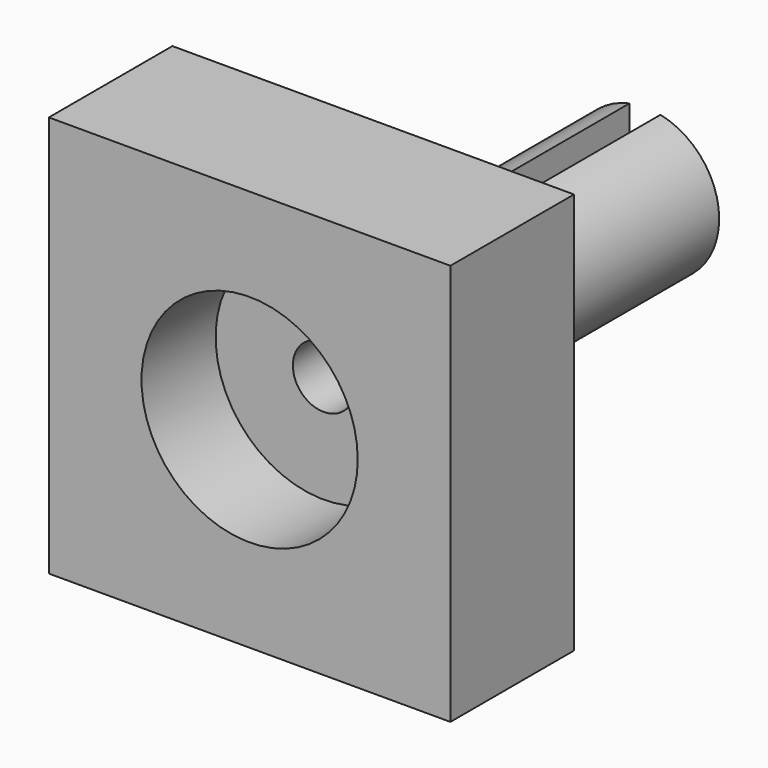
from build123d import *

# Parameters (mm, degrees)
CONE_ROLL_ANGLE        = 90
CYLINDER_R             = 1
CYLINDER_DEPTH         = 3
CYLINDER_ROLL_ANGLE    = 90
CYLINDER005_R          = 3.5
CYLINDER005_DEPTH      = 3
CYLINDER005_ROLL_ANGLE = 90
BOX_W                  = 1
BOX_H                  = 10
BOX_DEPTH              = 10
BOX002_W               = 13
BOX002_H               = 5
BOX002_DEPTH           = 13
CYLINDER002_R          = 2.4
CYLINDER002_DEPTH      = 13
CYLINDER002_ROLL_ANGLE = 90


with BuildPart() as screw_guide:
    # Cone → Cone (revolve)
    with BuildSketch(Plane.XZ):
        Polygon((0, 0), (0.5, 0), (1.5, 7), (0, 7), align=None)
    revolve(axis=Axis((0, 0, 0), (0, 0, 1)))


with BuildPart() as screw_guide_1:
    # Cone roll: moved
    add(screw_guide.part.rotate(Axis((0, 0, 0), (1, 0, 0)), CONE_ROLL_ANGLE))


with BuildPart() as screw_guide_2:
    # Cone placement: moved
    add(screw_guide_1.part.moved(Location((18, 69, 6))))


with BuildPart() as hole:
    # Cylinder → Cylinder (new body)
    with BuildSketch(Plane.XY):
        Circle(CYLINDER_R)
    extrude(amount=CYLINDER_DEPTH)


with BuildPart() as hole_1:
    # Cylinder roll: moved
    add(hole.part.rotate(Axis((0, 0, 0), (1, 0, 0)), CYLINDER_ROLL_ANGLE))


with BuildPart() as hole_2:
    # Cylinder placement: moved
    add(hole_1.part.moved(Location((18, 62, 6))))


with BuildPart() as screw_head_seat:
    # Cylinder005 → Cylinder005 (new body)
    with BuildSketch(Plane.XY):
        Circle(CYLINDER005_R)
    extrude(amount=CYLINDER005_DEPTH)


with BuildPart() as screw_head_seat_1:
    # Cylinder005 roll: moved
    add(screw_head_seat.part.rotate(Axis((0, 0, 0), (1, 0, 0)), CYLINDER005_ROLL_ANGLE))


with BuildPart() as screw_head_seat_2:
    # Cylinder005 placement: moved
    add(screw_head_seat_1.part.moved(Location((18, 59, 6))))


with BuildPart() as hole_and_cut:
    # Box → Box (new body)
    with BuildSketch(Plane(origin=(17.5, 62, 1), x_dir=(1, 0, 0), z_dir=(0, 0, 1))):
        with Locations((0.5, 5)):
            Rectangle(BOX_W, BOX_H)
    extrude(amount=BOX_DEPTH)

    # Fusion: union screw guide, hole, screw head seat
    add(screw_guide_2.part)
    add(hole_2.part)
    add(screw_head_seat_2.part)


with BuildPart() as squared_washer:
    # Box002 → Box002 (new body)
    with BuildSketch(Plane(origin=(11.5, 56, -0.5), x_dir=(1, 0, 0), z_dir=(0, 0, 1))):
        with Locations((6.5, 2.5)):
            Rectangle(BOX002_W, BOX002_H)
    extrude(amount=BOX002_DEPTH)


with BuildPart() as anchor_with_hole_and_cut:
    # Cylinder002 → Cylinder002 (new body)
    with BuildSketch(Plane.XY):
        Circle(CYLINDER002_R)
    extrude(amount=CYLINDER002_DEPTH)


with BuildPart() as anchor_with_hole_and_cut_1:
    # Cylinder002 roll: moved
    add(anchor_with_hole_and_cut.part.rotate(Axis((0, 0, 0), (1, 0, 0)), CYLINDER002_ROLL_ANGLE))


with BuildPart() as anchor_with_hole_and_cut_2:
    # Cylinder002 placement: moved
    add(anchor_with_hole_and_cut_1.part.moved(Location((18, 72, 6))))

    # Fusion001: union squared washer
    add(squared_washer.part)

    # Cut: cut hole and cut
    add(hole_and_cut.part, mode=Mode.SUBTRACT)


solid = anchor_with_hole_and_cut_2.part
